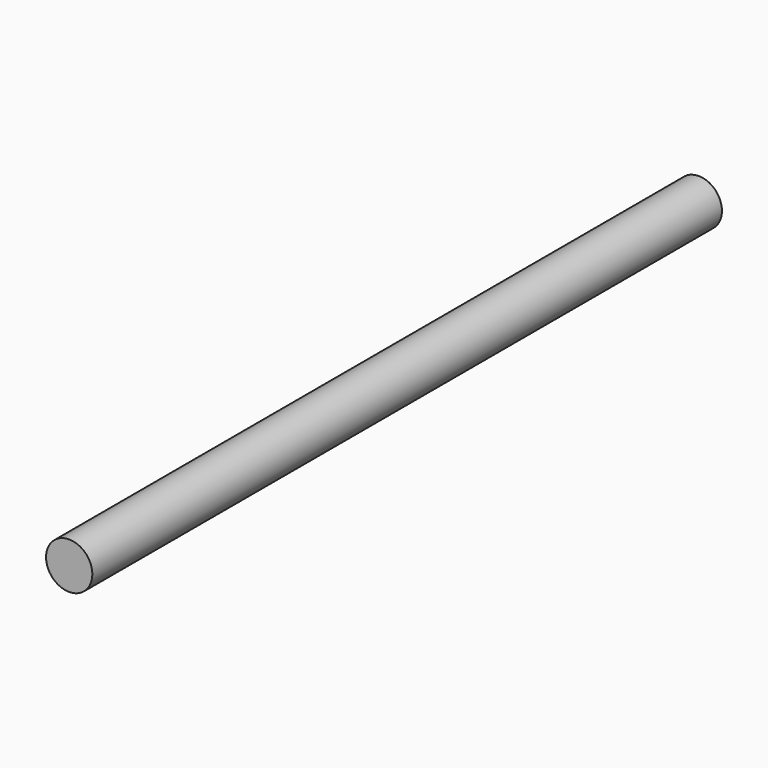
from build123d import *

# Parameters (mm, degrees)
F0_R     = 25
F1_DEPTH = 750
F2_DEPTH = 100


with BuildPart() as f1:
    # F0 (on Front) → F1 (new body)
    with BuildSketch(Plane.XZ):
        Circle(F0_R)
    extrude(amount=F1_DEPTH)

    # F0 (on Front) → F2 (join)
    with BuildSketch(Plane.XZ):
        Circle(F0_R)
    extrude(amount=-F2_DEPTH)


solid = f1.part
